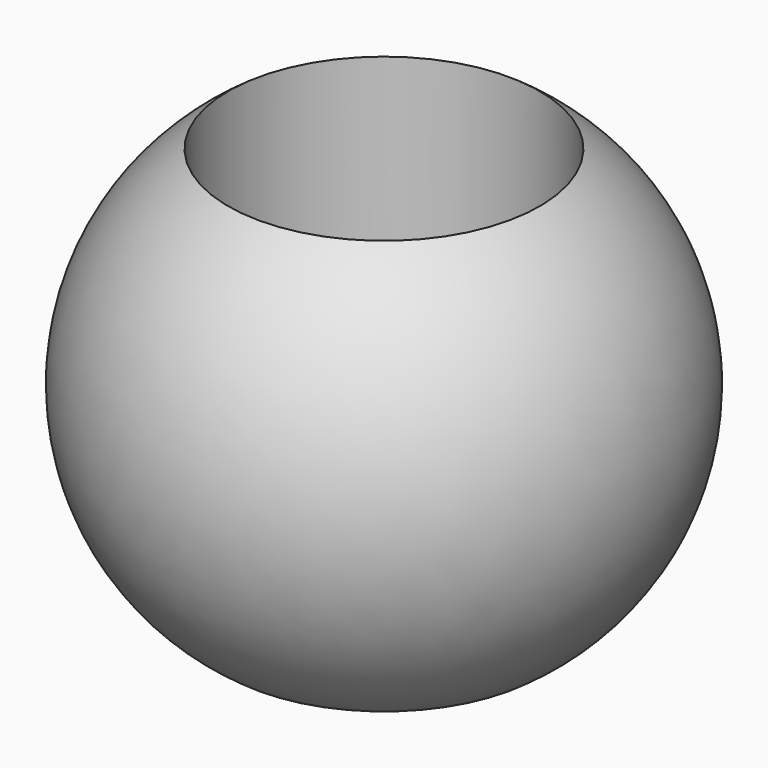
from build123d import *


with BuildPart() as f1:
    # F0 (on Right) → F1 (revolve)
    with BuildSketch(Plane.YZ):
        with BuildLine():
            Line((0, 0), (0, 270))
            ThreePointArc((0, 270), (-70.5, 135), (0, 0))
        make_face()
    revolve(axis=Axis((0, 101.5, 160.661146), (0, 0, 1)))


solid = f1.part
